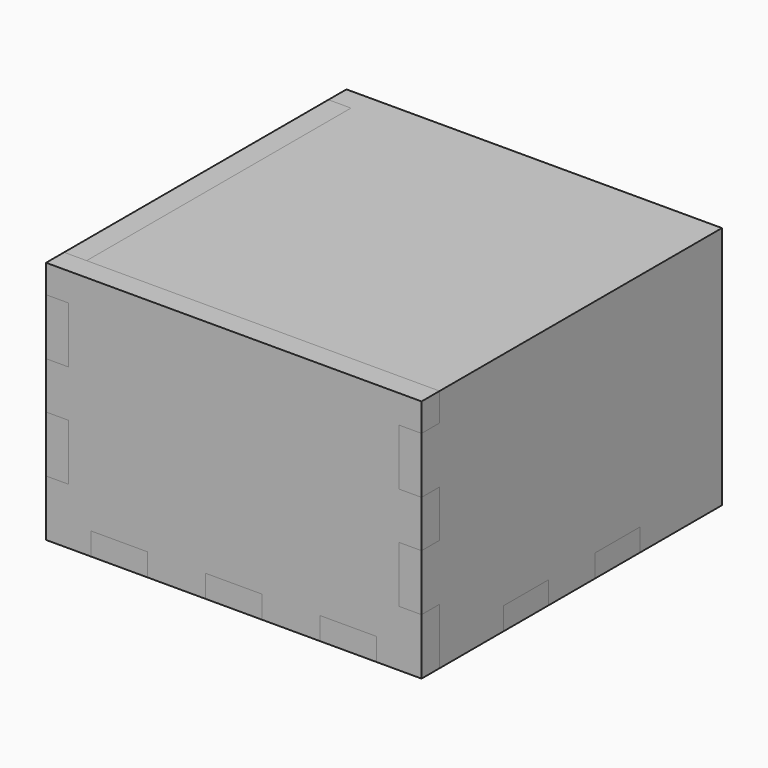
from build123d import *

# Parameters (mm, degrees)
F0_W     = 200
F0_H     = 200
F0_W_2   = 61.817065
F0_H_2   = 48.289645
F1_DEPTH = 130
F3_DEPTH = 12
F5_DEPTH = 12
F7_DEPTH = 12


with BuildPart() as f1:
    # F0 (on Top) → F1 (new body)
    with BuildSketch(Plane.XY):
        Rectangle(F0_W, F0_H)
        with Locations((-45.024239, 3.057866)):
            Rectangle(F0_W_2, F0_H_2, mode=Mode.SUBTRACT)
        with Locations((-45.024239, 3.057866)):
            Rectangle(F0_W_2, F0_H_2)
    extrude(amount=F1_DEPTH)


with BuildPart() as f3:
    # F2 (on face) → F3 (new body)
    with BuildSketch(Plane(origin=(0, 0, 0), x_dir=(1, 0, 0), z_dir=(0, 0, -1))):
        Polygon((88, 45.5), (88, 88), (76, 88), (76, 100), (46, 100), (46, 88), (15, 88), (15, 100), (-15, 100), (-15, 88), (-46, 88), (-46, 100), (-76, 100), (-76, 88), (-88, 88), (-88, 45.5), (-100, 45.5), (-100, 15.5), (-88, 15.5), (-88, -15.5), (-100, -15.5), (-100, -45.5), (-88, -45.5), (-88, -88), (-76, -88), (-76, -100), (-46, -100), (-46, -88), (-15, -88), (-15, -100), (15, -100), (15, -88), (46, -88), (46, -100), (76, -100), (76, -88), (88, -88), (88, -45.5), (100, -45.5), (100, -15.5), (88, -15.5), (88, 15.5), (100, 15.5), (100, 45.5), align=None)
    extrude(amount=-F3_DEPTH)


with BuildPart() as f5:
    # F4 (on face) → F5 (new body)
    with BuildSketch(Plane.XZ.offset(100)):
        Polygon((-76, 0), (-76, 12), (-46, 12), (-46, 0), (-15, 0), (-15, 12), (15, 12), (15, 0), (46, 0), (46, 12), (76, 12), (76, 0), (100, 0), (100, 30), (88, 30), (88, 60), (100, 60), (100, 85), (88, 85), (88, 115), (100, 115), (100, 130), (-100, 130), (-100, 115), (-88, 115), (-88, 85), (-100, 85), (-100, 60), (-88, 60), (-88, 30), (-100, 30), (-100, 0), align=None)
    extrude(amount=-F5_DEPTH)


with BuildPart() as f7:
    # F6 (on face) → F7 (new body)
    with BuildSketch(Plane(origin=(-100, 0, 0), x_dir=(0, -1, 0), z_dir=(-1, 0, 0))):
        Polygon((88, 130), (0, 130), (0, 0), (15.5, 0), (15.5, 12), (45.5, 12), (45.5, 0), (88, 0), (88, 30), (100, 30), (100, 60), (88, 60), (88, 85), (100, 85), (100, 115), (88, 115), align=None)
        Polygon((0, 0), (0, 130), (-88, 130), (-88, 115), (-100, 115), (-100, 85), (-88, 85), (-88, 60), (-100, 60), (-100, 30), (-88, 30), (-88, 0), (-45.5, 0), (-45.5, 12), (-15.5, 12), (-15.5, 0), align=None)
    extrude(amount=-F7_DEPTH)


solid = Compound([f1.part, f3.part, f5.part, f7.part])
